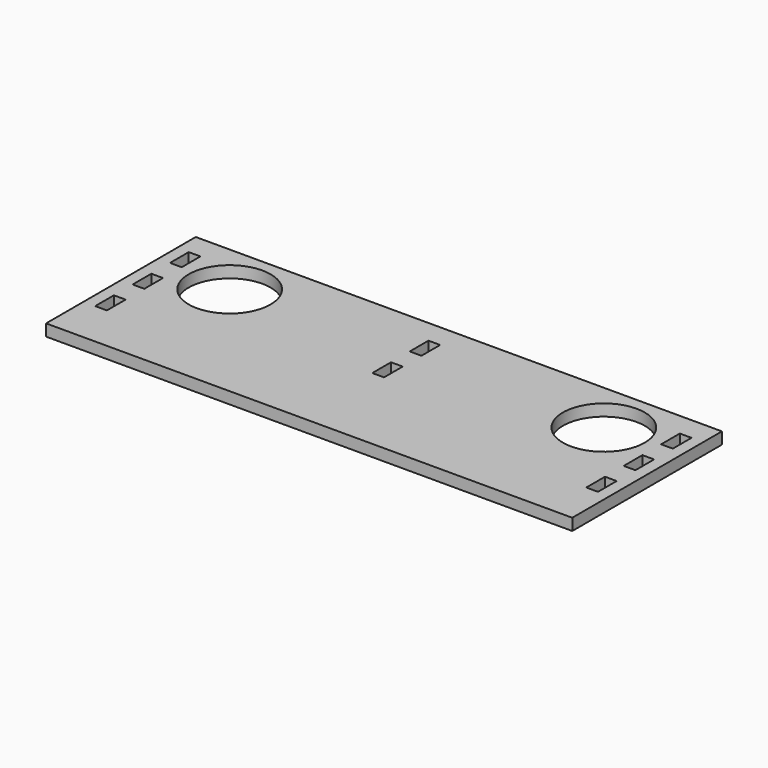
from build123d import *

# Parameters (mm, degrees)
F0_W     = 142.875
F0_H     = 50.8
F0_R     = 11.1125
F1_DEPTH = 3.175
F2_W     = 3.175
F2_H     = 6.35
F3_DEPTH = 3.175


with BuildPart() as f1:
    # F0 (on Top) → F1 (new body)
    with BuildSketch(Plane.XY):
        with Locations((-71.4375, 25.4)):
            Rectangle(F0_W, F0_H)
        with Locations((-122.2375, 36.5125)):
            Circle(F0_R, mode=Mode.SUBTRACT)
        with Locations((-20.6375, 36.5125)):
            Circle(F0_R, mode=Mode.SUBTRACT)
    extrude(amount=F1_DEPTH)

    # F2 (on face) → F3 (cut, through all)
    with BuildSketch(Plane.XY.offset(3.175)):
        with Locations((-4.7625, 41.275)):
            Rectangle(F2_W, F2_H)
        with Locations((-4.7625, 28.575)):
            Rectangle(F2_W, F2_H)
        with Locations((-4.7625, 15.875)):
            Rectangle(F2_W, F2_H)
        with Locations((-138.1125, 41.275)):
            Rectangle(F2_W, F2_H)
        with Locations((-138.1125, 28.575)):
            Rectangle(F2_W, F2_H)
        with Locations((-138.1125, 15.875)):
            Rectangle(F2_W, F2_H)
        with Locations((-73.025, 41.275)):
            Rectangle(F2_W, F2_H)
        with Locations((-73.025, 28.575)):
            Rectangle(F2_W, F2_H)
    extrude(amount=-F3_DEPTH, mode=Mode.SUBTRACT)


solid = f1.part
